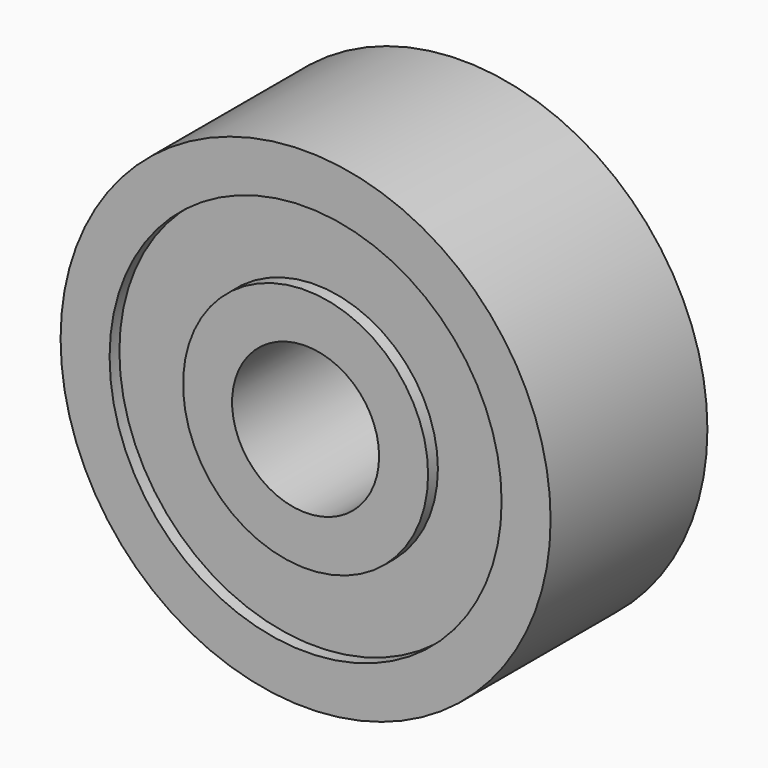
from build123d import *

# Parameters (mm, degrees)
F0_R     = 5
F0_R_2   = 1.5
F1_DEPTH = 2
F2_R     = 4
F2_R_2   = 2.5
F3_DEPTH = 0.25
F4_R     = 4
F4_R_2   = 2.5
F5_DEPTH = 0.25


with BuildPart() as f1:
    # F0 (on Front) → F1 (new body, symmetric)
    with BuildSketch(Plane.XZ):
        Circle(F0_R)
        Circle(F0_R_2, mode=Mode.SUBTRACT)
    extrude(amount=F1_DEPTH, both=True)

    # F2 (on face) → F3 (cut)
    with BuildSketch(Plane.XZ.offset(2)):
        Circle(F2_R)
        Circle(F2_R_2, mode=Mode.SUBTRACT)
    extrude(amount=-F3_DEPTH, mode=Mode.SUBTRACT)

    # F4 (on face) → F5 (cut)
    with BuildSketch(Plane(origin=(0, 2, 0), x_dir=(-1, 0, 0), z_dir=(0, 1, 0))):
        Circle(F4_R)
        Circle(F4_R_2, mode=Mode.SUBTRACT)
    extrude(amount=-F5_DEPTH, mode=Mode.SUBTRACT)


solid = f1.part
